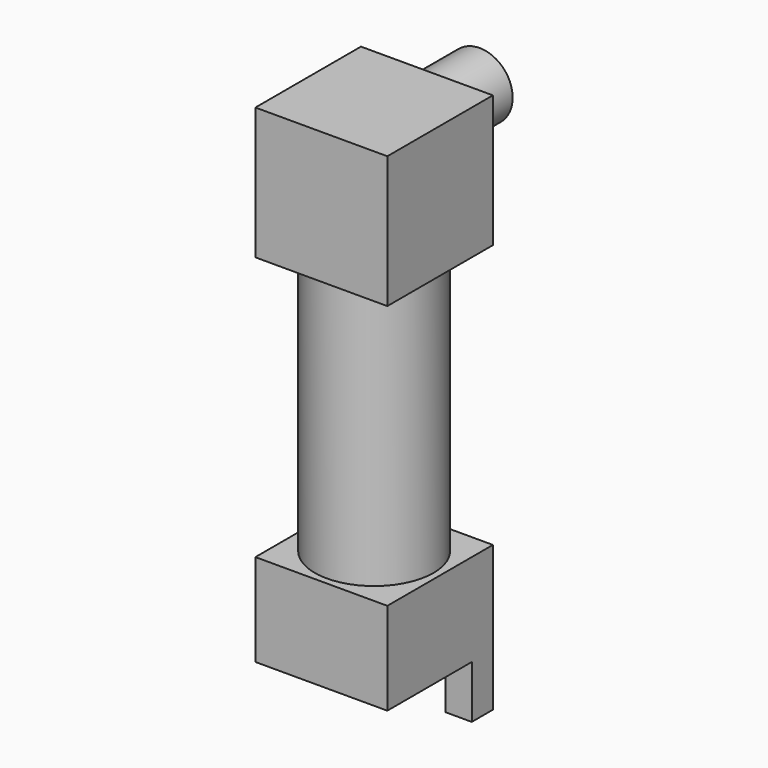
from build123d import *

# Parameters (mm, degrees)
F0_R      = 4.5
F1_DEPTH  = 20
F0_W      = 10
F0_H      = 10
F2_DEPTH  = 7
F4_W      = 10
F4_H      = 10
F5_DEPTH  = 10
F6_R      = 2.5
F7_DEPTH  = 5
F8_T      = -0.75
F9_W      = 2
F9_H      = 2
F10_DEPTH = 4


with BuildPart() as f1:
    # F0 (on Top) → F1 (new body)
    with BuildSketch(Plane.XY):
        Circle(F0_R)
    extrude(amount=F1_DEPTH)

    # F0 (on Top) → F2 (join)
    with BuildSketch(Plane.XY):
        Rectangle(F0_W, F0_H)
        Circle(F0_R, mode=Mode.SUBTRACT)
        Circle(F0_R)
    extrude(amount=-F2_DEPTH)

    # F4 (on offset) → F5 (join)
    with BuildSketch(Plane.XY.offset(20)):
        Rectangle(F4_W, F4_H)
    extrude(amount=F5_DEPTH)

    # F6 (on face) → F7 (join)
    with BuildSketch(Plane(origin=(0, 5, 0), x_dir=(-1, 0, 0), z_dir=(0, 1, 0))):
        with Locations((0, 27)):
            Circle(F6_R)
    extrude(amount=F7_DEPTH)

    # F8
    f8_openings = [f1.faces().sort_by_distance(p)[0] for p in [
        (0, 10, 27),
    ]]
    offset(amount=F8_T, openings=f8_openings, kind=Kind.INTERSECTION)

    # F9 (on face) → F10 (join)
    with BuildSketch(Plane(origin=(0, 0, -7), x_dir=(1, 0, 0), z_dir=(0, 0, -1))):
        with Locations((4, -4)):
            Rectangle(F9_W, F9_H)
        with Locations((-4, -4)):
            Rectangle(F9_W, F9_H)
    extrude(amount=F10_DEPTH)


solid = f1.part
